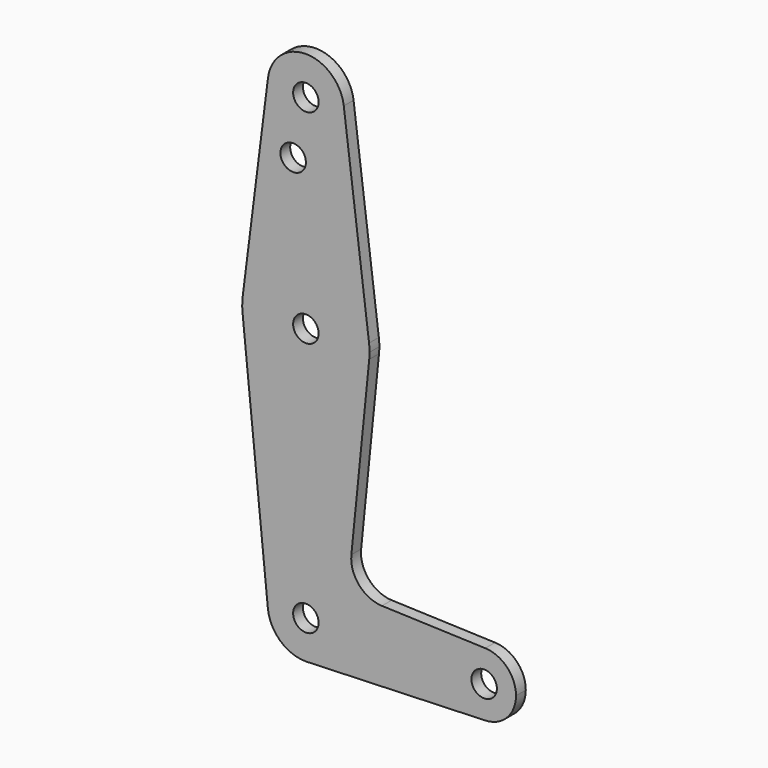
from build123d import *

# Parameters (mm, degrees)
F0_R     = 3.175
F1_DEPTH = 3.048


with BuildPart() as f1:
    # F0 (on Front) → F1 (new body)
    with BuildSketch(Plane.XZ):
        with BuildLine():
            ThreePointArc((-9.450293, 51.990625), (-0.596483, 41.293695), (9.525, 50.8))
            ThreePointArc((9.525, 50.8), (9.506305, 51.396483), (9.450293, 51.990625))
            ThreePointArc((9.450293, 51.990625), (0, 60.325), (-9.450293, 51.990625))
        make_face()
        with Locations((0, 50.8)):
            Circle(F0_R, mode=Mode.SUBTRACT)
        with BuildLine():
            ThreePointArc((9.450293, 51.990625), (9.506305, 51.396483), (9.525, 50.8))
            ThreePointArc((9.525, 50.8), (-0.596483, 41.293695), (-9.450293, 51.990625))
            Line((-9.450293, 51.990625), (-15.750488, 1.984375))
            ThreePointArc((-15.750488, 1.984375), (0, 15.875), (15.750488, 1.984375))
            Line((15.750488, 1.984375), (9.450293, 51.990625))
        make_face()
        with Locations((-3.175, 36.5252)):
            Circle(F0_R, mode=Mode.SUBTRACT)
        with BuildLine():
            ThreePointArc((15.875, 0), (15.843841, 0.994139), (15.750488, 1.984375))
            ThreePointArc((15.750488, 1.984375), (0, 15.875), (-15.750488, 1.984375))
            ThreePointArc((-15.750488, 1.984375), (-15.873744, 0.199705), (-15.795426, -1.5875))
            ThreePointArc((-15.795426, -1.5875), (0, -15.875), (15.795426, -1.5875))
            ThreePointArc((15.795426, -1.5875), (15.855094, -0.794747), (15.875, 0))
        make_face()
        Circle(F0_R, mode=Mode.SUBTRACT)
        with BuildLine():
            ThreePointArc((15.795426, -1.5875), (0, -15.875), (-15.795426, -1.5875))
            Line((-15.795426, -1.5875), (-9.477255, -64.4525))
            ThreePointArc((-9.477255, -64.4525), (-0.476848, -53.986944), (9.525, -63.5))
            ThreePointArc((9.525, -63.5), (6.970557, -69.991299), (0.677344, -73.000886))
            Line((0.677344, -73.000886), (44.732405, -71.432475))
            ThreePointArc((44.732405, -71.432475), (36.5125, -63.5), (44.732405, -55.567525))
            Line((44.732405, -55.567525), (18.968328, -54.650294))
            ThreePointArc((18.968328, -54.650294), (13.261204, -51.932537), (11.340836, -45.910108))
            Line((11.340836, -45.910108), (15.795426, -1.5875))
        make_face()
        with BuildLine():
            ThreePointArc((9.525, -63.5), (-0.476848, -53.986944), (-9.477255, -64.4525))
            ThreePointArc((-9.477255, -64.4525), (-6.389564, -70.563929), (0, -73.025))
            Line((0, -73.025), (0.677344, -73.000886))
            ThreePointArc((0.677344, -73.000886), (6.970557, -69.991299), (9.525, -63.5))
        make_face()
        with Locations((0, -63.5)):
            Circle(F0_R, mode=Mode.SUBTRACT)
        with BuildLine():
            Line((0.677344, -73.000886), (0, -73.025))
            ThreePointArc((0, -73.025), (0.338886, -73.01897), (0.677344, -73.000886))
        make_face()
        with BuildLine():
            ThreePointArc((52.3875, -63.5), (50.161633, -57.98809), (44.732405, -55.567525))
            ThreePointArc((44.732405, -55.567525), (36.5125, -63.5), (44.732405, -71.432475))
            ThreePointArc((44.732405, -71.432475), (50.161633, -69.01191), (52.3875, -63.5))
        make_face()
        with Locations((44.45, -63.5)):
            Circle(F0_R, mode=Mode.SUBTRACT)
    extrude(amount=F1_DEPTH)


solid = f1.part
